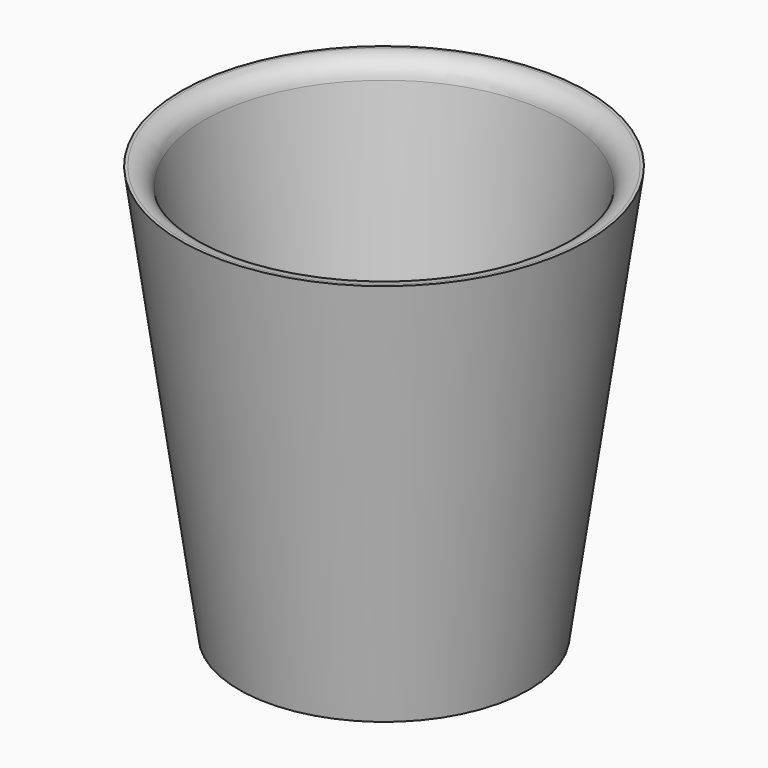
from build123d import *

# Parameters (mm, degrees)
F0_R     = 35
F1_DEPTH = 100
F1_TAPER = -8
F2_T     = -5
F3_R     = 5


with BuildPart() as f1:
    # F0 (on Top) → F1 (new body)
    with BuildSketch(Plane.XY):
        Circle(F0_R)
    extrude(amount=F1_DEPTH, taper=F1_TAPER)

    # F2
    f2_openings = [f1.faces().sort_by_distance(p)[0] for p in [
        (0, 0, 100),
    ]]
    offset(amount=F2_T, openings=f2_openings, kind=Kind.INTERSECTION)

    # F3
    f3_edges = [f1.edges().sort_by_distance(p)[0] for p in [
        (-44.004946, 0, 100),
        (-30.653566, 0, 5),
    ]]
    fillet(f3_edges, radius=F3_R)


solid = f1.part
